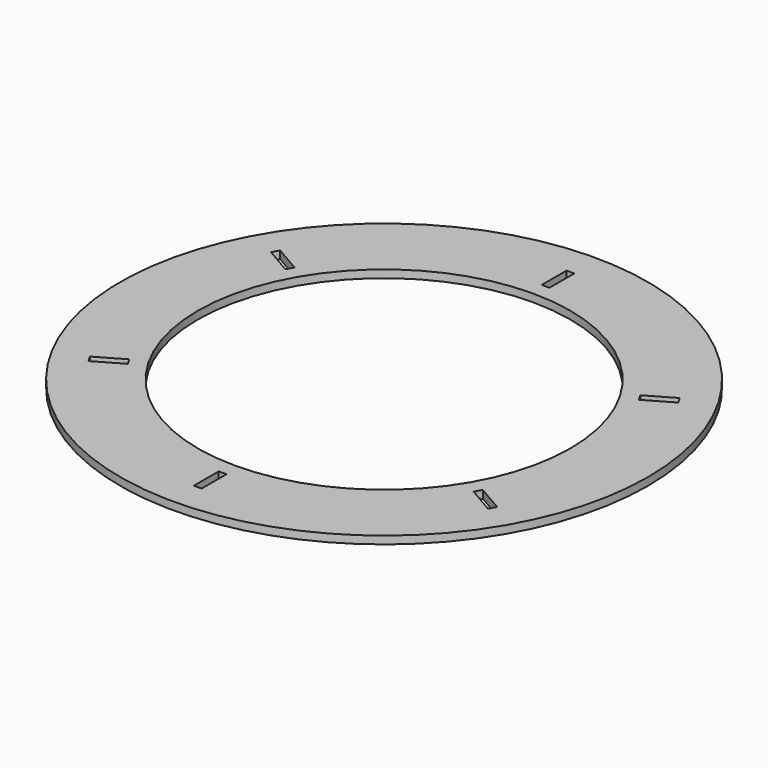
from build123d import *

# Parameters (mm, degrees)
F0_R     = 863.6
F0_W     = 25.4
F0_H     = 101.6
F0_R_2   = 609.6
F1_DEPTH = 25.4


with BuildPart() as f1:
    # F0 (on Top) → F1 (new body)
    with BuildSketch(Plane.XY):
        Circle(F0_R)
        Polygon((-653.561358, -391.998523), (-666.261358, -370.001477), (-578.273177, -319.201477), (-565.573177, -341.198523), align=None, mode=Mode.SUBTRACT)
        with Locations((0, -711.2)):
            Rectangle(F0_W, F0_H, mode=Mode.SUBTRACT)
        Polygon((666.261358, -370.001477), (653.561358, -391.998523), (565.573177, -341.198523), (578.273177, -319.201477), align=None, mode=Mode.SUBTRACT)
        Polygon((-666.261358, 370.001477), (-653.561358, 391.998523), (-565.573177, 341.198523), (-578.273177, 319.201477), align=None, mode=Mode.SUBTRACT)
        Circle(F0_R_2, mode=Mode.SUBTRACT)
        Polygon((653.561358, 391.998523), (666.261358, 370.001477), (578.273177, 319.201477), (565.573177, 341.198523), align=None, mode=Mode.SUBTRACT)
        with Locations((0, 711.2)):
            Rectangle(F0_W, F0_H, mode=Mode.SUBTRACT)
    extrude(amount=F1_DEPTH)


solid = f1.part
